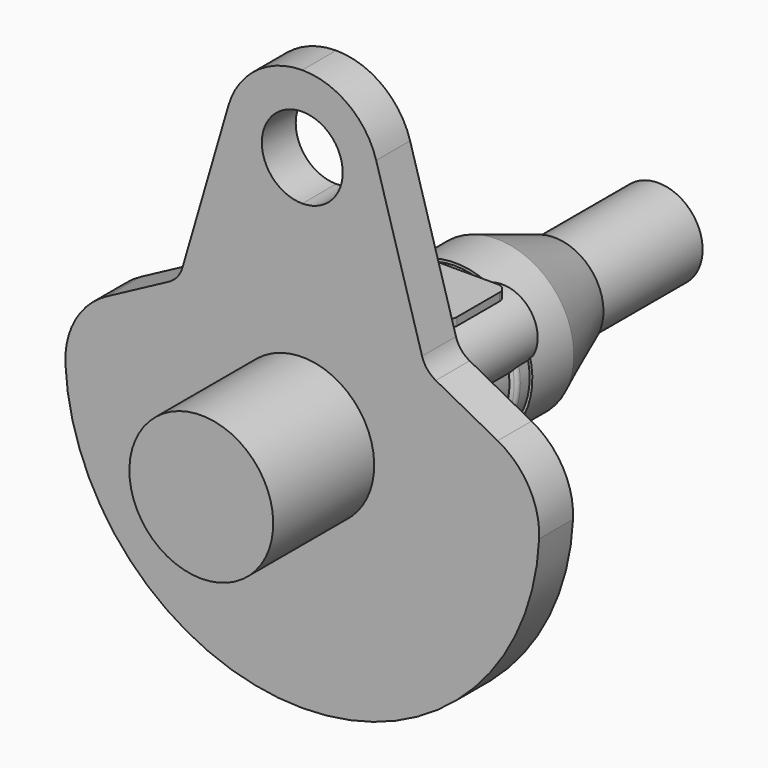
from build123d import *

# Parameters (mm, degrees)
PAD_DEPTH      = 23
PAD_DEPTH_BACK = 22
PAD001_DEPTH   = 36
PAD003_DEPTH   = 41
SKETCH006_R    = 7.276046
PAD004_DEPTH   = 33
PAD005_DEPTH   = 20
SKETCH010_W    = 78.038044
SKETCH010_H    = 33.944244


with BuildPart() as obj1:
    # Sketch (on XY_Plane of Origin) → Revolution (revolve)
    with BuildSketch(Plane.XY):
        with BuildLine():
            Line((35.076877, 40.6869), (35.076877, 14.757778))
            ThreePointArc((33.89118, 12.675333), (34.759678, 13.559607), (35.076877, 14.757778))
            Line((33.89118, 12.675333), (30.4803, 10.6511))
            ThreePointArc((30.4803, 10.6511), (29.611802, 9.766826), (29.294603, 8.568654))
            Line((29.294603, 8.568654), (29.294603, -20.4803))
            Line((29.294603, -20.4803), (0, -20.4803))
            Line((0, -20.4803), (0, 40.6869))
            Line((0, 40.6869), (35.076877, 40.6869))
        make_face()
    revolve(axis=Axis((0, 0, 0), (0, 1, 0)))

    # Sketch001 (on XZ_Plane of Origin) → Pad (new body, two sides)
    with BuildSketch(Plane.XZ) as pad_sk:
        with BuildLine():
            ThreePointArc((29.142841, 2.281239), (33.781297, 27.270727), (8.375617, 28.006397))
            Line((-9.345743, 8.483209), (8.375617, 28.006397))
            ThreePointArc((-9.345743, 8.483209), (-9.820967, -7.928201), (6.321594, -10.924523))
            Line((6.321594, -10.924523), (29.142841, 2.281239))
        make_face()
    extrude(amount=PAD_DEPTH)
    extrude(pad_sk.sketch, amount=-PAD_DEPTH_BACK)

    # Sketch002 (on XY_Plane of Origin) → Pad001 (join)
    with BuildSketch(Plane.XY):
        with BuildLine():
            Line((-16.405185, 12.4949), (-16.405185, -12.4949))
            ThreePointArc((-16.405185, -12.4949), (-15.016172, -15.848272), (-11.6628, -17.237285))
            Line((-11.6628, -17.237285), (22.302456, -17.237285))
            ThreePointArc((22.302456, -17.237285), (25.655829, -15.848272), (27.044841, -12.4949))
            Line((27.044841, -12.4949), (27.044841, 12.4949))
            ThreePointArc((27.044841, 12.4949), (25.655829, 15.848272), (22.302456, 17.237285))
            Line((22.302456, 17.237285), (-11.6628, 17.237285))
            ThreePointArc((-11.6628, 17.237285), (-15.016172, 15.848272), (-16.405185, 12.4949))
        make_face()
    extrude(amount=PAD001_DEPTH)

    # Sketch004 (on XY_Plane of Origin) → Pad003 (join)
    with BuildSketch(Plane.XY):
        with BuildLine():
            Line((-20.655, 28.2037), (-20.655, -28.2037))
            ThreePointArc((-20.655, -28.2037), (-19.190534, -31.739234), (-15.655, -33.2037))
            Line((-15.655, -33.2037), (15.655, -33.2037))
            ThreePointArc((15.655, -33.2037), (19.190534, -31.739234), (20.655, -28.2037))
            Line((20.655, -28.2037), (20.655, 28.2037))
            ThreePointArc((20.655, 28.2037), (19.190534, 31.739234), (15.655, 33.2037))
            Line((15.655, 33.2037), (-15.655, 33.2037))
            ThreePointArc((-15.655, 33.2037), (-19.190534, 31.739234), (-20.655, 28.2037))
        make_face()
    extrude(amount=-PAD003_DEPTH)

    # Sketch006 (on Vertex2 of Sketch005) → Pad004 (join)
    with BuildSketch(Plane(origin=(-28.385, 9, -8.55659), x_dir=(0, 1, 0), z_dir=(0.646083, 0, -0.763267))):
        Circle(SKETCH006_R)
    extrude(amount=PAD004_DEPTH)


with BuildPart() as body_flywheel_shaft:
    # Sketch008 (on YZ_Plane002 of Origin004) → Revolution001 (revolve)
    with BuildSketch(Plane.YZ):
        Polygon((128.651005, 0), (128.651005, -12.551149), (141.880463, -12.551149), (141.880463, -18.974543), (140.006012, -20.920609), (78.710246, -20.920609), (78.710246, -23.165339), (44.714244, -36.360771), (20.27903, -36.360771), (20.27903, -32.3749), (0, -32.3749), (0, 0), align=None)
    revolve(axis=Axis((0, 0, 0), (0, 1, 0)))


with BuildPart() as body003:
    # Sketch009 (on XZ_Plane003 of Origin006) → Pad005 (new body)
    with BuildSketch(Plane.XZ):
        with BuildLine():
            ThreePointArc((0, -111.897626), (77.237903, -80.965332), (111.773461, -5.269918))
            ThreePointArc((111.773461, -5.269918), (106.976265, 14.771694), (92.206802, 29.143274))
            Line((63.006093, 44.706982), (92.206802, 29.143274))
            ThreePointArc((56.53892, 52.665935), (58.968417, 48.033083), (63.006093, 44.706982))
            Line((34.887764, 126.950269), (56.53892, 52.665935))
            ThreePointArc((34.887764, 126.950269), (21.806385, 145.851271), (0, 153.121201))
            Line((0, 153.121201), (0, 135.869921))
            ThreePointArc((0, 97.693612), (19.088155, 116.781767), (0, 135.869921))
            Line((0, 97.693612), (0, 32.579393))
            ThreePointArc((0, -32.579393), (32.579393, 0), (0, 32.579393))
            Line((0, -32.579393), (0, -111.897626))
        make_face()
    extrude(amount=-PAD005_DEPTH)

    # Mirrored: Body003 across YZ


with BuildPart() as body003_1:
    add(body003.part)
    add(body003.part.mirror(Plane.YZ))


with BuildPart() as body003_2:
    # Body003 placement: moved
    add(body003_1.part.moved(Location((0, -70, 0))))


with BuildPart() as body004:
    # Sketch010 (on YZ_Plane005 of Origin010) → Revolution002 (revolve)
    with BuildSketch(Plane.YZ):
        with Locations((-90.52973, -16.972122)):
            Rectangle(SKETCH010_W, SKETCH010_H)
    revolve(axis=Axis((0, 0, 0), (0, 1, 0)))


solid = Compound([obj1.part, body_flywheel_shaft.part, body003_2.part, body004.part])
